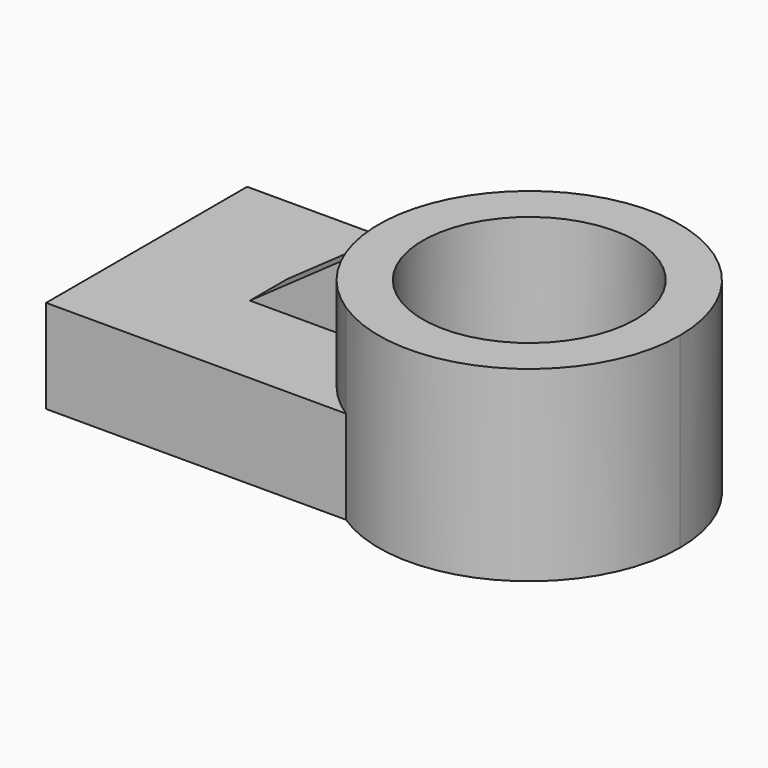
from build123d import *

# Parameters (mm, degrees)
F0_R     = 28.970038
F1_DEPTH = 50.8
F2_DEPTH = 25.4
F4_DEPTH = 6.35


with BuildPart() as f1:
    # F0 (on Top) → F1 (new body)
    with BuildSketch(Plane.XY):
        with BuildLine():
            ThreePointArc((92.899099, 0), (71.392782, 36.011503), (29.489314, 34.154247))
            ThreePointArc((29.489314, 34.154247), (11.092901, 0), (29.489314, -34.154247))
            ThreePointArc((29.489314, -34.154247), (71.392782, -36.011503), (92.899099, 0))
        make_face()
        with Locations((51.996, 0)):
            Circle(F0_R, mode=Mode.SUBTRACT)
    extrude(amount=F1_DEPTH)

    # F0 (on Top) → F2 (join)
    with BuildSketch(Plane.XY):
        with BuildLine():
            ThreePointArc((29.489314, -34.154247), (11.092901, 0), (29.489314, 34.154247))
            Line((29.489314, 34.154247), (-51.996, 34.154247))
            Line((-51.996, 34.154247), (-51.996, -34.154247))
            Line((-51.996, -34.154247), (29.489314, -34.154247))
        make_face()
        with BuildLine():
            ThreePointArc((92.899099, 0), (71.392782, 36.011503), (29.489314, 34.154247))
            ThreePointArc((29.489314, 34.154247), (11.092901, 0), (29.489314, -34.154247))
            ThreePointArc((29.489314, -34.154247), (71.392782, -36.011503), (92.899099, 0))
        make_face()
        with Locations((51.996, 0)):
            Circle(F0_R, mode=Mode.SUBTRACT)
    extrude(amount=F2_DEPTH)

    # F3 (on Front) → F4 (join, symmetric)
    with BuildSketch(Plane.XZ):
        Polygon((-25.342142, 20.81975), (10.89422, 20.81975), (10.89422, 46.377778), align=None)
    extrude(amount=F4_DEPTH, both=True)


solid = f1.part
